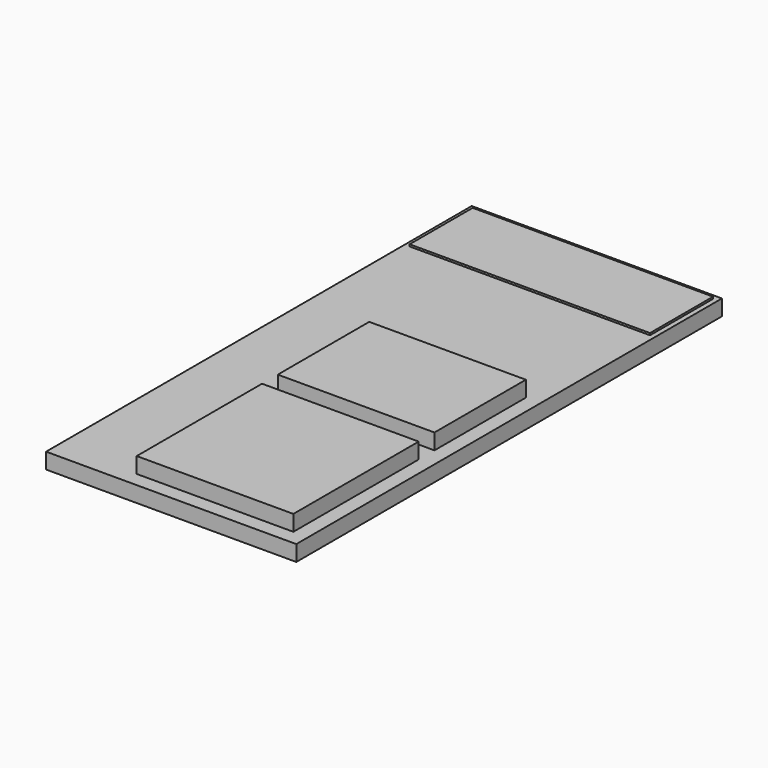
from build123d import *

# Parameters (mm, degrees)
F0_W     = 12.7
F0_H     = 27
F1_DEPTH = 0.8
F2_W     = 7.95
F2_H     = 7.95
F2_H_2   = 5.8
F3_DEPTH = 0.8
F4_W     = 12.2
F4_H     = 4
F5_DEPTH = 0.1


with BuildPart() as f1:
    # F0 (on Top) → F1 (new body)
    with BuildSketch(Plane.XY):
        with Locations((6.35, 13.5)):
            Rectangle(F0_W, F0_H)
    extrude(amount=F1_DEPTH)


with BuildPart() as f3:
    # F2 (on face) → F3 (new body)
    with BuildSketch(Plane.XY.offset(0.8)):
        with Locations((7.975, 4.725)):
            Rectangle(F2_W, F2_H)
        with Locations((7.975, 12.6)):
            Rectangle(F2_W, F2_H_2)
    extrude(amount=F3_DEPTH)


with BuildPart() as f5:
    # F4 (on face) → F5 (new body)
    with BuildSketch(Plane.XY.offset(0.8)):
        with Locations((6.35, 24.75)):
            Rectangle(F4_W, F4_H)
    extrude(amount=F5_DEPTH)


solid = Compound([f1.part, f3.part, f5.part])
